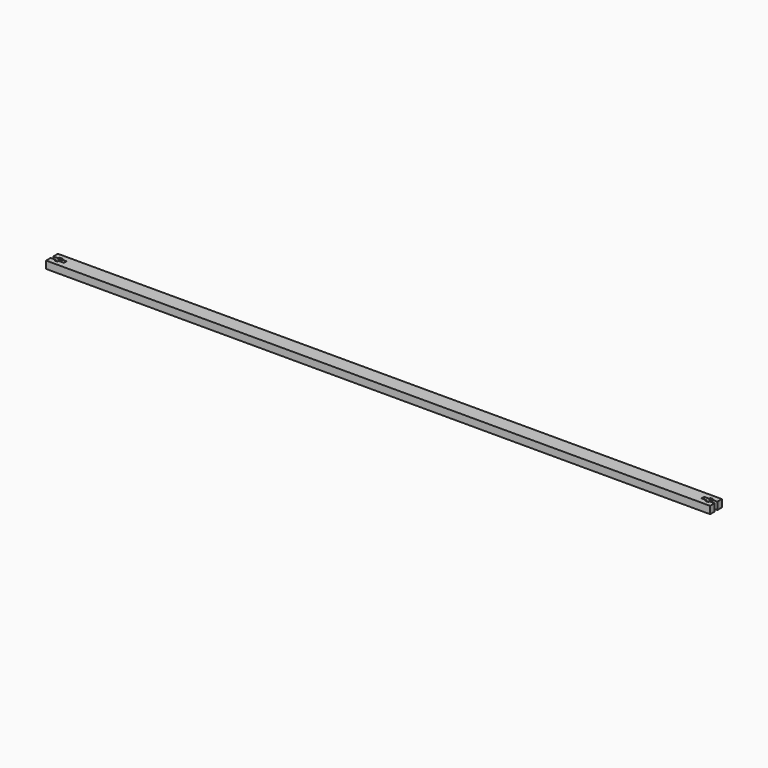
from build123d import *

# Parameters (mm, degrees)
F1_DEPTH = 6.35


with BuildPart() as f1:
    # F0 (on Top) → F1 (new body)
    with BuildSketch(Plane.XY):
        Polygon((-285.75, -6.35), (285.75, -6.35), (285.75, -1.4605), (281.305, -1.4605), (281.305, -2.7305), (278.765, -2.7305), (278.765, -1.4605), (274.32, -1.4605), (274.32, 0), (274.32, 1.4605), (278.765, 1.4605), (278.765, 2.7305), (281.305, 2.7305), (281.305, 1.4605), (285.75, 1.4605), (285.75, 6.35), (-285.75, 6.35), (-285.75, 1.4605), (-281.305, 1.4605), (-281.305, 2.7305), (-278.765, 2.7305), (-278.765, 1.4605), (-274.32, 1.4605), (-274.32, 0), (-274.32, -1.4605), (-278.765, -1.4605), (-278.765, -2.7305), (-281.305, -2.7305), (-281.305, -1.4605), (-285.75, -1.4605), align=None)
    extrude(amount=F1_DEPTH)


solid = f1.part
